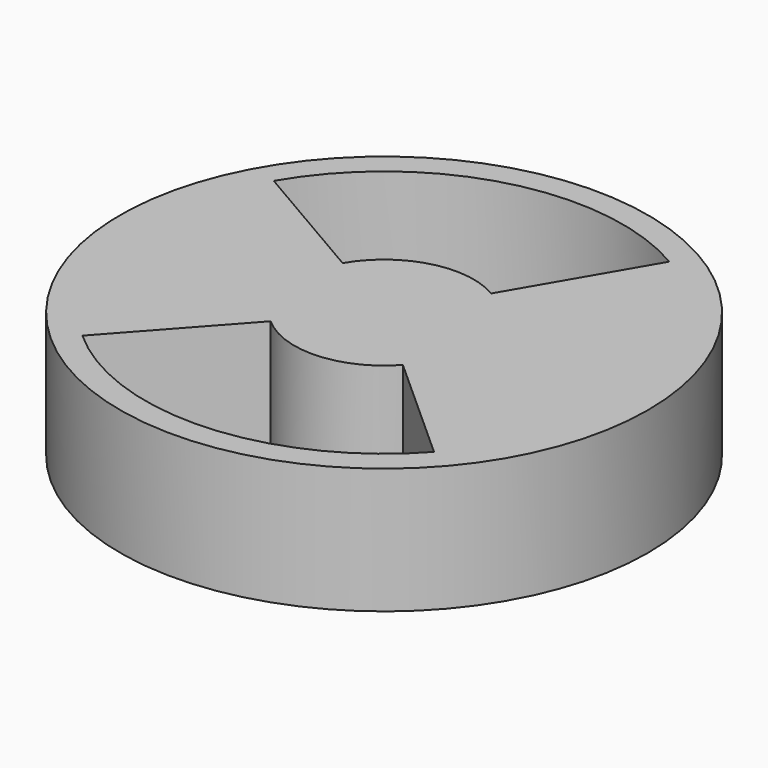
from build123d import *

# Parameters (mm, degrees)
F0_R     = 26.67
F1_DEPTH = 12.7
F3_DEPTH = 101.6


with BuildPart() as f1:
    # F0 (on Top) → F1 (new body)
    with BuildSketch(Plane.XY):
        Circle(F0_R)
    extrude(amount=F1_DEPTH)

    # F2 (on face) → F3 (cut)
    with BuildSketch(Plane.XY.offset(12.7)):
        with BuildLine():
            ThreePointArc((-16.128085, -17.948308), (1.287092, -24.095649), (17.948308, -16.128085))
            Line((17.948308, -16.128085), (6.744785, -6.060765))
            ThreePointArc((6.744785, -6.060765), (0.483676, -9.054891), (-6.060765, -6.744785))
            Line((-6.060765, -6.744785), (-16.128085, -17.948308))
        make_face()
        with BuildLine():
            Line((4.56095, 7.837266), (12.136981, 20.855469))
            ThreePointArc((12.136981, 20.855469), (-6.164903, 23.329185), (-20.855469, 12.136981))
            Line((-20.855469, 12.136981), (-7.837266, 4.56095))
            ThreePointArc((-7.837266, 4.56095), (-2.316705, 8.766862), (4.56095, 7.837266))
        make_face()
    extrude(amount=-F3_DEPTH, mode=Mode.SUBTRACT)


solid = f1.part
